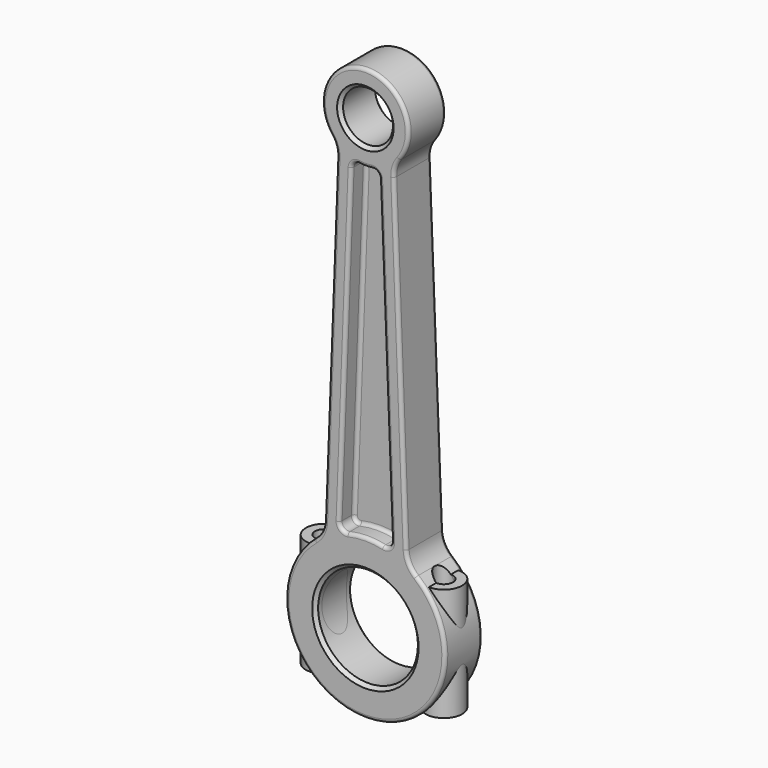
from build123d import *

# Parameters (mm, degrees)
F0_R     = 15
F0_R_2   = 7.5
F1_DEPTH = 7
F2_DEPTH = 1.5
F3_R     = 5.5
F3_R_2   = 2.75
F4_DEPTH = 16
F5_DEPTH = 18
F6_DEPTH = 12.5
F7_DEPTH = 18.5
F8_SIZE  = 1
F9_R     = 1
F10_R    = 1


with BuildPart() as f1:
    # F0 (on Front) → F1 (new body, symmetric)
    with BuildSketch(Plane.XZ):
        with BuildLine():
            ThreePointArc((-12.350715, 24.394433), (-13.176417, 21.148419), (-15.258661, 18.524937))
            ThreePointArc((-15.258661, 18.524937), (0, -24), (15.258661, 18.524937))
            ThreePointArc((15.258661, 18.524937), (13.176417, 21.148419), (12.350715, 24.394433))
            Line((12.350715, 24.394433), (8.626303, 121.858629))
            ThreePointArc((8.626303, 121.858629), (9.001095, 124.602381), (10.288861, 127.053974))
            ThreePointArc((10.288861, 127.053974), (0, 148), (-10.288861, 127.053974))
            ThreePointArc((-10.288861, 127.053974), (-9.001095, 124.602381), (-8.626303, 121.858629))
            Line((-8.626303, 121.858629), (-12.350715, 24.394433))
        make_face()
        Circle(F0_R, mode=Mode.SUBTRACT)
        with BuildLine():
            ThreePointArc((-4.185002, 120.23658), (-3.4644, 121.698673), (-1.894932, 122.138848))
            ThreePointArc((-1.894932, 122.138848), (0, 122), (1.894932, 122.138848))
            ThreePointArc((1.894932, 122.138848), (3.4644, 121.698673), (4.185002, 120.23658))
            Line((4.185002, 120.23658), (7.808281, 25.418962))
            ThreePointArc((7.808281, 25.418962), (7.085616, 23.802417), (5.362836, 23.393161))
            ThreePointArc((5.362836, 23.393161), (0, 24), (-5.362836, 23.393161))
            ThreePointArc((-5.362836, 23.393161), (-7.085616, 23.802417), (-7.808281, 25.418962))
            Line((-7.808281, 25.418962), (-4.185002, 120.23658))
        make_face(mode=Mode.SUBTRACT)
        with Locations((0, 135)):
            Circle(F0_R_2, mode=Mode.SUBTRACT)
    extrude(amount=F1_DEPTH, both=True)

    # F0 (on Front) → F2 (join, symmetric)
    with BuildSketch(Plane.XZ):
        with BuildLine():
            ThreePointArc((1.894932, 122.138848), (0, 122), (-1.894932, 122.138848))
            ThreePointArc((-1.894932, 122.138848), (-3.4644, 121.698673), (-4.185002, 120.23658))
            Line((-4.185002, 120.23658), (-7.808281, 25.418962))
            ThreePointArc((-7.808281, 25.418962), (-7.085616, 23.802417), (-5.362836, 23.393161))
            ThreePointArc((-5.362836, 23.393161), (0, 24), (5.362836, 23.393161))
            ThreePointArc((5.362836, 23.393161), (7.085616, 23.802417), (7.808281, 25.418962))
            Line((7.808281, 25.418962), (4.185002, 120.23658))
            ThreePointArc((4.185002, 120.23658), (3.4644, 121.698673), (1.894932, 122.138848))
        make_face()
    extrude(amount=F2_DEPTH, both=True)

    # F3 (on Top) → F4 (join)
    with BuildSketch(Plane.XY):
        with Locations((18, 0)):
            Circle(F3_R)
        with Locations((18, 0)):
            Circle(F3_R_2, mode=Mode.SUBTRACT)
        with Locations((-18, 0)):
            Circle(F3_R)
        with Locations((-18, 0)):
            Circle(F3_R_2, mode=Mode.SUBTRACT)
    extrude(amount=F4_DEPTH)

    # F3 (on Top) → F5 (join)
    with BuildSketch(Plane.XY):
        with Locations((-18, 0)):
            Circle(F3_R)
        with Locations((-18, 0)):
            Circle(F3_R_2, mode=Mode.SUBTRACT)
        with Locations((18, 0)):
            Circle(F3_R)
        with Locations((18, 0)):
            Circle(F3_R_2, mode=Mode.SUBTRACT)
    extrude(amount=-F5_DEPTH)

    # F0 (on Front) → F6 (cut, symmetric)
    with BuildSketch(Plane.XZ):
        Circle(F0_R)
    extrude(amount=F6_DEPTH, both=True, mode=Mode.SUBTRACT)

    # F3 (on Top) → F7 (cut, symmetric)
    with BuildSketch(Plane.XY):
        with Locations((-18, 0)):
            Circle(F3_R_2)
        with Locations((18, 0)):
            Circle(F3_R_2)
    extrude(amount=F7_DEPTH, both=True, mode=Mode.SUBTRACT)

    # F8
    f8_edges = [f1.edges().sort_by_distance(p)[0] for p in [
        (-7.5, -7, 135),
        (-7.5, 7, 135),
        (-15, -7, 0),
        (-15, 7, 0),
    ]]
    chamfer(f8_edges, length=F8_SIZE)

    # F9
    f9_edges = [f1.edges().sort_by_distance(p)[0] for p in [
        (-5.996641, -7, 72.827771),
        (-5.996641, 7, 72.827771),
        (-5.996641, 1.5, 72.827771),
        (-5.996641, -1.5, 72.827771),
    ]]
    fillet(f9_edges, radius=F9_R)

    # F10
    f10_edges = [f1.edges().sort_by_distance(p)[0] for p in [
        (10.488509, -7, 73.126531),
        (10.488509, 7, 73.126531),
    ]]
    fillet(f10_edges, radius=F10_R)


solid = f1.part
